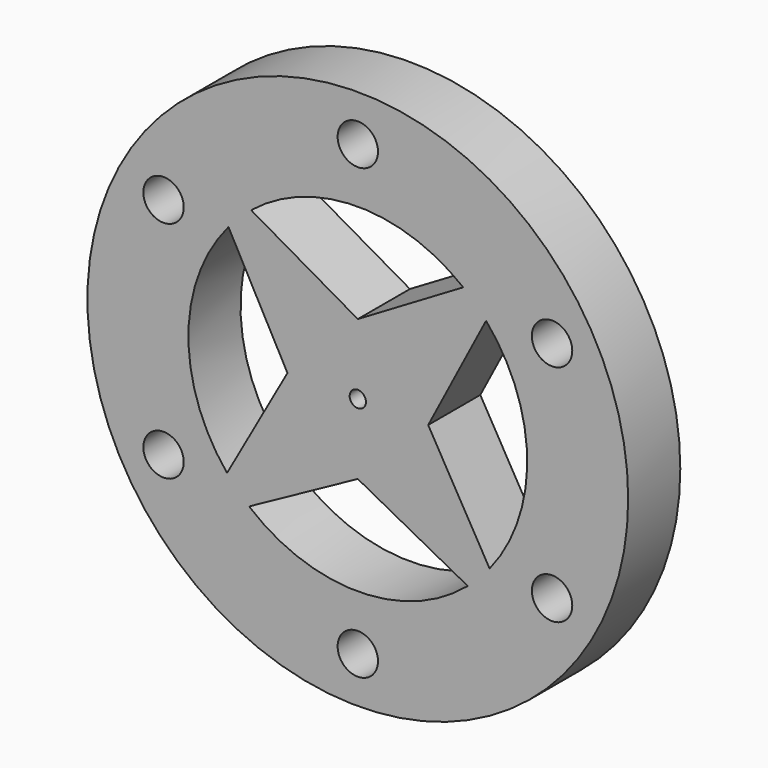
from build123d import *

# Parameters (mm, degrees)
F0_R     = 52.705
F0_R_2   = 3.937
F0_R_3   = 1.5875
F1_DEPTH = 12.7


with BuildPart() as f1:
    # F0 (on Front) → F1 (new body)
    with BuildSketch(Plane.XZ):
        Circle(F0_R)
        with Locations((-37.866322, -21.862131)):
            Circle(F0_R_2, mode=Mode.SUBTRACT)
        with Locations((0, -43.724262)):
            Circle(F0_R_2, mode=Mode.SUBTRACT)
        with BuildLine():
            Line((-21.188976, -25.324843), (0, -13.716))
            Line((0, -13.716), (21.428677, -25.122344))
            ThreePointArc((21.428677, -25.122344), (0.156893, -33.019627), (-21.188976, -25.324843))
        make_face(mode=Mode.SUBTRACT)
        with Locations((37.866322, -21.862131)):
            Circle(F0_R_2, mode=Mode.SUBTRACT)
        with Locations((-37.866322, 21.862131)):
            Circle(F0_R_2, mode=Mode.SUBTRACT)
        with BuildLine():
            ThreePointArc((-25.489804, -20.990243), (-33.019278, 0.218322), (-25.210014, 21.325468))
            Line((-25.210014, 21.325468), (-13.716, 0))
            Line((-13.716, 0), (-25.489804, -20.990243))
        make_face(mode=Mode.SUBTRACT)
        with BuildLine():
            Line((0, 13.716), (-20.791242, 25.652381))
            ThreePointArc((-20.791242, 25.652381), (-0.15642, 33.01963), (20.547274, 25.84821))
            Line((20.547274, 25.84821), (0, 13.716))
        make_face(mode=Mode.SUBTRACT)
        Circle(F0_R_3, mode=Mode.SUBTRACT)
        with BuildLine():
            Line((13.716, 0), (25.005697, 21.564683))
            ThreePointArc((25.005697, 21.564683), (33.015692, 0.533365), (25.689217, -20.745711))
            Line((25.689217, -20.745711), (13.716, 0))
        make_face(mode=Mode.SUBTRACT)
        with Locations((37.866322, 21.862131)):
            Circle(F0_R_2, mode=Mode.SUBTRACT)
        with Locations((0, 43.724262)):
            Circle(F0_R_2, mode=Mode.SUBTRACT)
    extrude(amount=F1_DEPTH)


solid = f1.part
